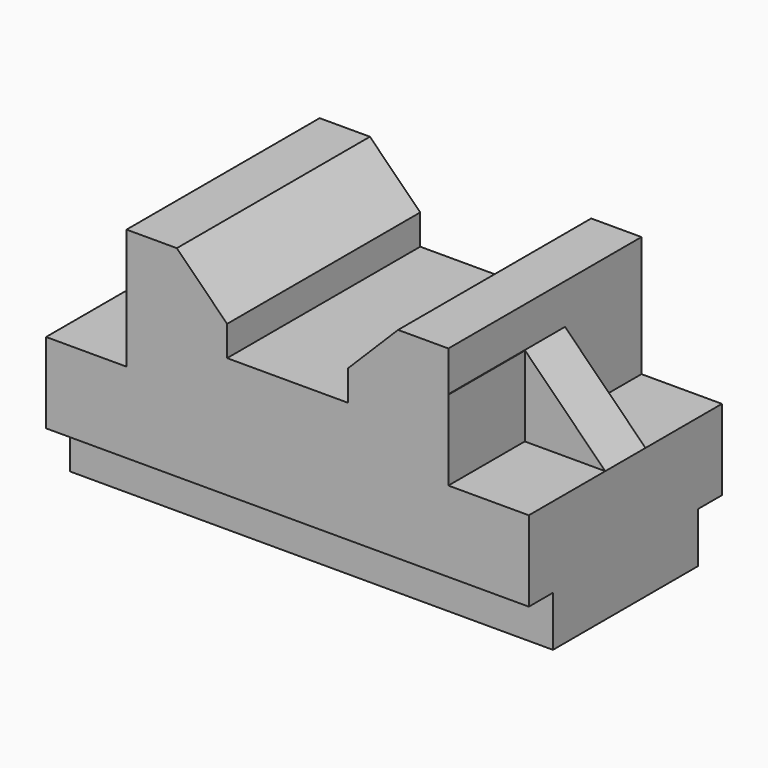
from build123d import *

# Parameters (mm, degrees)
F0_W     = 406.4
F0_H     = 660.4
F0_W_2   = 254
F0_H_2   = 406.4
F0_H_3   = 863.6
F1_DEPTH = 1219.2
F2_W     = 152.4
F2_H     = 254
F3_DEPTH = 2438.4
F4_W     = 482.6
F4_H     = 406.5058358669
F4_H_2   = 405.0241538048
F5_DEPTH = 406.4


with BuildPart() as f1:
    # F0 (on Front) → F1 (new body)
    with BuildSketch(Plane.XZ):
        with Locations((-1016, -304.8)):
            Rectangle(F0_W, F0_H)
        Polygon((-558.8, 228.6), (-812.8, 228.6), (-812.8, 25.4), (-812.8, -635), (-558.8, -635), align=None)
        with Locations((-685.8, 431.8)):
            Rectangle(F0_W_2, F0_H_2)
        Polygon((-304.8, 381), (-558.8, 635), (-558.8, 228.6), (-304.8, 228.6), align=None)
        with Locations((-431.8, -203.2)):
            Rectangle(F0_W_2, F0_H_3)
        Polygon((-152.4, 228.6), (-304.8, 228.6), (-304.8, -635), (304.8, -635), (304.8, 228.6), align=None)
        Polygon((558.8, -635), (558.8, 635), (304.8, 381), (304.8, 228.6), (304.8, -635), align=None)
        Polygon((812.8, 635), (558.8, 635), (558.8, -635), (812.8, -635), (812.8, 25.4), (812.8, 431.8), align=None)
        Polygon((1219.2, 25.4), (812.8, 431.8), (812.8, 25.4), align=None)
        with Locations((1016, -304.8)):
            Rectangle(F0_W, F0_H)
    extrude(amount=F1_DEPTH)

    # F2 (on face) → F3 (cut)
    with BuildSketch(Plane.YZ.offset(1219.2)):
        with Locations((-1143, -508)):
            Rectangle(F2_W, F2_H)
        with Locations((-76.2, -508)):
            Rectangle(F2_W, F2_H)
    extrude(amount=-F3_DEPTH, mode=Mode.SUBTRACT)

    # F4 (on face) → F5 (cut)
    with BuildSketch(Plane.YZ.offset(1219.2)):
        with Locations((-241.3, 228.6529179335)):
            Rectangle(F4_W, F4_H)
        with Locations((-977.9, 227.9120769024)):
            Rectangle(F4_W, F4_H_2)
    extrude(amount=-F5_DEPTH, mode=Mode.SUBTRACT)


solid = f1.part
